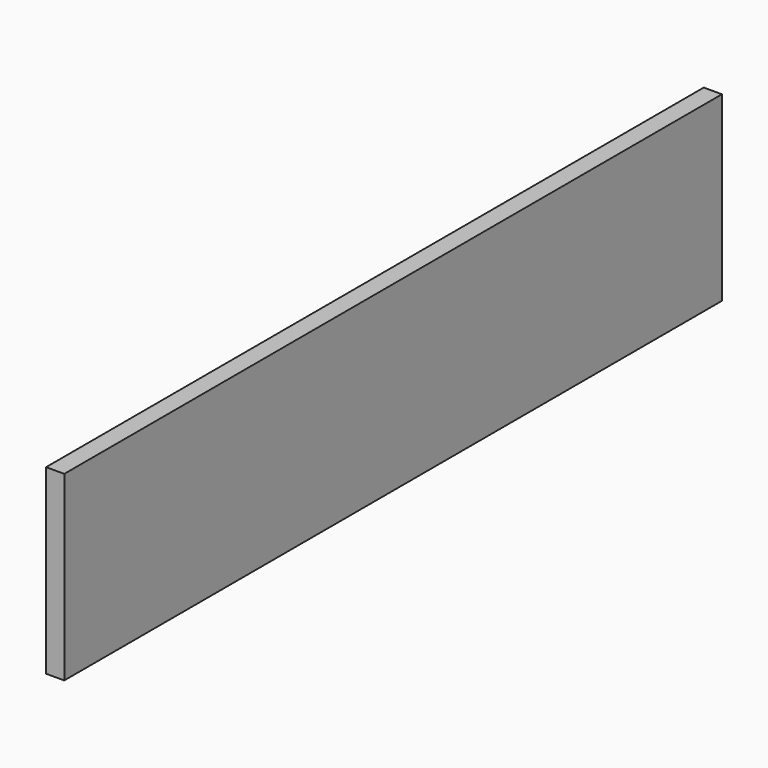
from build123d import *

# Parameters (mm, degrees)
PAD_DEPTH = 10


with BuildPart() as part:
    # Sketch → Pad (new body)
    with BuildSketch(Plane.YZ):
        Polygon((0, 0), (0, 100), (452, 100), (452, 0), (226, 0), align=None)
    extrude(amount=-PAD_DEPTH)


solid = part.part
